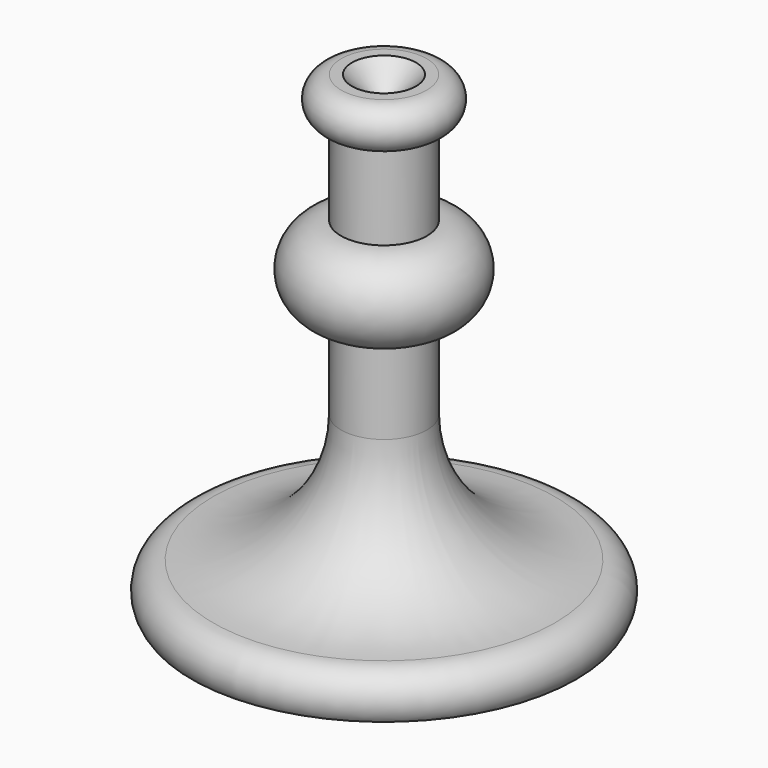
from build123d import *

# Parameters (mm, degrees)
F4_R     = 3.81
F5_DEPTH = 3.175
F5_TAPER = 45


with BuildPart() as f1:
    # F0 (on Front) → F1 (revolve)
    with BuildSketch(Plane.XZ):
        with BuildLine():
            Line((0, 0), (22.86, 0))
            ThreePointArc((22.86, 0), (23.1610674908, 3.3228215), (20.3249612916, 5.0801734801))
            ThreePointArc((20.3249612916, 5.0801734801), (9.5636393697, 9.5520457272), (5.1081376997, 20.3201558572))
            Line((5.1081376997, 20.3201558572), (5.1081376997, 30.4801558572))
            ThreePointArc((5.1081376997, 30.4801558572), (10.1881376997, 35.5601558572), (5.1081376997, 40.6401558572))
            Line((5.1081376997, 40.6401558572), (5.1081376997, 50.8001558572))
            ThreePointArc((5.1081376997, 50.8001558572), (7.6199610354, 53.3540690657), (5.08, 55.88))
            Line((5.08, 55.88), (0, 55.88))
            Line((0, 55.88), (0, 0))
        make_face()
    revolve(axis=Axis((0, 0, 27.94), (0, 0, 1)))

    # F4 (on face) → F5 (cut, symmetric)
    with BuildSketch(Plane.XY.offset(55.88)):
        Circle(F4_R)
    extrude(amount=F5_DEPTH, both=True, taper=F5_TAPER, mode=Mode.SUBTRACT)


solid = f1.part
